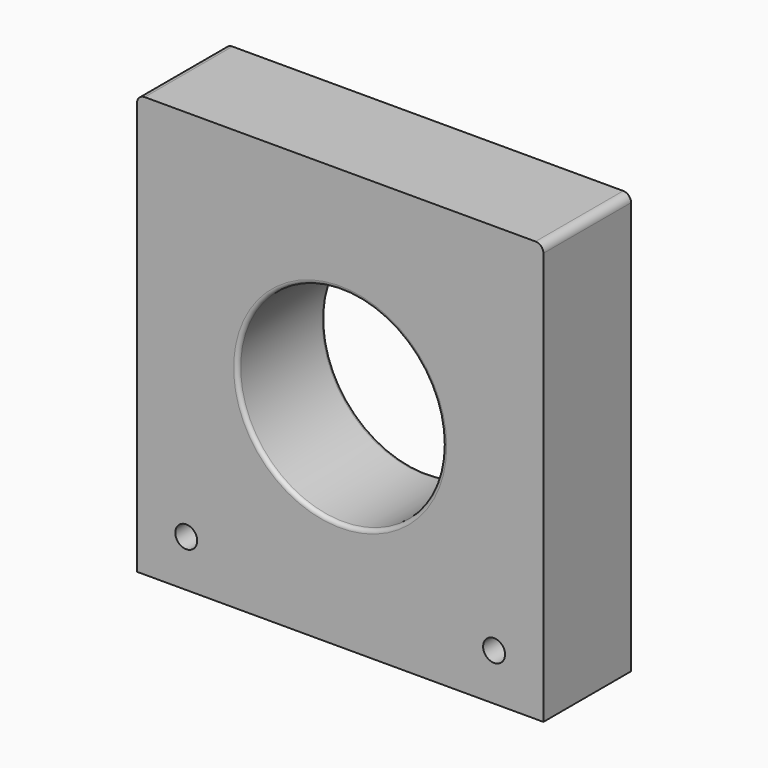
from build123d import *

# Parameters (mm, degrees)
F0_W     = 103.632
F0_H     = 27.94
F1_DEPTH = 107.188
F2_R     = 26.162
F3_DEPTH = 27.941
F4_R     = 2.794
F5_DEPTH = 27.941
F6_R     = 1
F7_R     = 2


with BuildPart() as f1:
    # F0 (on Top) → F1 (new body)
    with BuildSketch(Plane.XY):
        Rectangle(F0_W, F0_H)
    extrude(amount=F1_DEPTH)

    # F2 (on face) → F3 (cut, through all)
    with BuildSketch(Plane.XZ.offset(13.97)):
        with Locations((0, 53.848)):
            Circle(F2_R)
    extrude(amount=-F3_DEPTH, mode=Mode.SUBTRACT)

    # F4 (on face) → F5 (cut, through all)
    with BuildSketch(Plane.XZ.offset(13.97)):
        with Locations((-39.243, 11.938)):
            Circle(F4_R)
        with Locations((39.243, 11.938)):
            Circle(F4_R)
    extrude(amount=-F5_DEPTH, mode=Mode.SUBTRACT)

    # F6
    f6_edges = [f1.edges().sort_by_distance(p)[0] for p in [
        (-26.162, -13.97, 53.848),
        (26.162, 0, 53.848),
        (-26.162, 13.97, 53.848),
    ]]
    fillet(f6_edges, radius=F6_R)

    # F7
    f7_edges = [f1.edges().sort_by_distance(p)[0] for p in [
        (51.816, 0, 107.188),
        (-51.816, 0, 107.188),
    ]]
    fillet(f7_edges, radius=F7_R)


solid = f1.part
